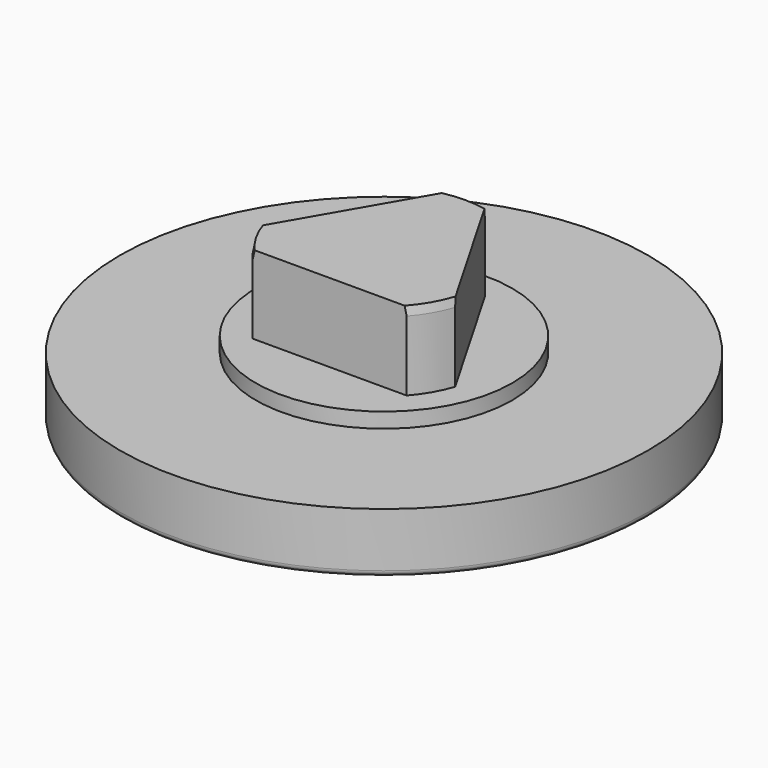
from build123d import *

# Parameters (mm, degrees)
F0_R     = 11.1125
F1_DEPTH = 2.54
F2_R     = 5.3975
F3_DEPTH = 0.635
F5_DEPTH = 3.302
F6_SIZE2 = 0.3601263955
F6_SIZE  = 0.0635
F7_R     = 0.254


with BuildPart() as f1:
    # F0 (on Top) → F1 (new body)
    with BuildSketch(Plane.XY):
        Circle(F0_R)
    extrude(amount=F1_DEPTH)

    # F2 (on face) → F3 (join)
    with BuildSketch(Plane.XY.offset(2.54)):
        Circle(F2_R)
    extrude(amount=F3_DEPTH)

    # F4 (on face) → F5 (join)
    with BuildSketch(Plane.XY.offset(3.175)):
        with BuildLine():
            Line((-0.8560402601, 4.2322947763), (-4.0932949226, -1.3747947763))
            ThreePointArc((-4.0932949226, -1.3747947763), (-3.7394976935, -2.159), (-3.2372546625, -2.8575))
            Line((-3.2372546625, -2.8575), (3.2372546625, -2.8575))
            ThreePointArc((3.2372546625, -2.8575), (3.7394976935, -2.159), (4.0932949226, -1.3747947763))
            Line((4.0932949226, -1.3747947763), (0.8560402601, 4.2322947763))
            ThreePointArc((0.8560402601, 4.2322947763), (0, 4.318), (-0.8560402601, 4.2322947763))
        make_face()
    extrude(amount=F5_DEPTH)

    # F6
    f6_edges = [f1.edges().sort_by_distance(p)[0] for p in [
        (3.739498, -2.159, 6.477),
        (-3.739498, -2.159, 6.477),
        (0, 4.318, 6.477),
    ]]
    f6_side = f1.faces().sort_by_distance((0, 0, 6.477))[0]
    chamfer(f6_edges, length=F6_SIZE, length2=F6_SIZE2, reference=f6_side)

    # F7
    f7_edges = [f1.edges().sort_by_distance(p)[0] for p in [
        (-11.1125, 0, 0),
    ]]
    fillet(f7_edges, radius=F7_R)


solid = f1.part
